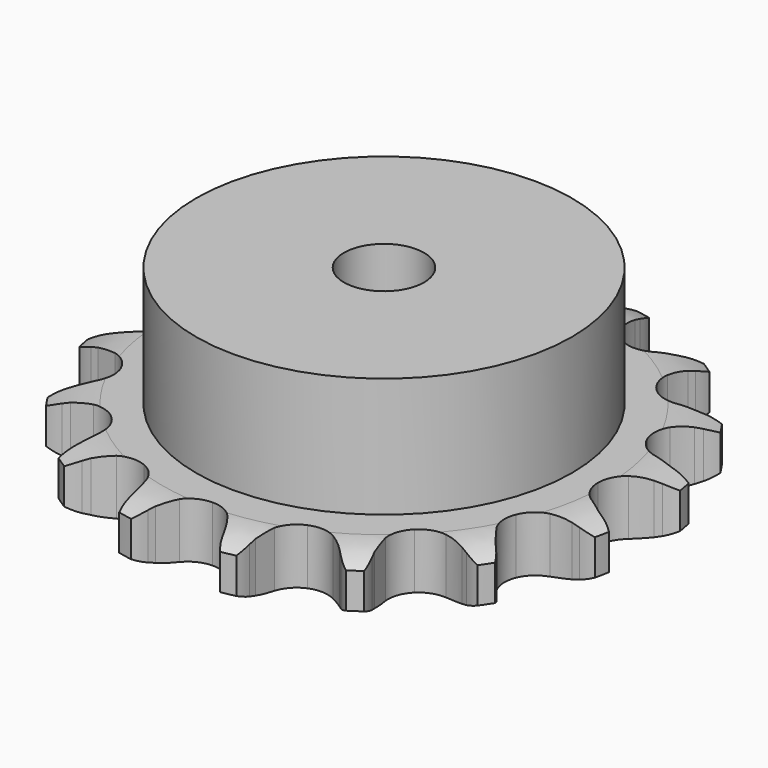
from build123d import *

# Parameters (mm, degrees)
PAD_DEPTH         = 11.1
SKETCH001_R       = 37.5
PAD001_DEPTH      = 35
SKETCH002_R       = 8
POCKET_DEPTH      = 0.001
POCKET_DEPTH_BACK = -35.001


with BuildPart() as part:
    # Sprocket → Pad (new body)
    with BuildSketch(Plane.XY):
        with BuildLine():
            ThreePointArc((-10.675506, 53.669391), (-8.778269, 51.876827), (-7.406396, 49.656297))
            Line((-7.406396, 49.656297), (-6.838144, 48.394825))
            ThreePointArc((-6.838144, 48.394825), (-5.906426, 46.633258), (-4.759849, 45.003356))
            ThreePointArc((-4.759849, 45.003356), (-2.63954, 43.320559), (0, 42.720264))
            ThreePointArc((0, 42.720264), (2.63954, 43.320559), (4.759849, 45.003356))
            ThreePointArc((4.759849, 45.003356), (5.906426, 46.633258), (6.838144, 48.394825))
            Line((6.838144, 48.394825), (7.406396, 49.656297))
            ThreePointArc((7.406396, 49.656297), (8.778269, 51.876827), (10.675506, 53.669391))
            ThreePointArc((10.675506, 53.669391), (11.74234, 51.287237), (12.160025, 48.710741))
            Line((12.160025, 48.710741), (12.202276, 47.327833))
            ThreePointArc((12.202276, 47.327833), (12.388949, 45.343804), (12.824511, 43.399195))
            ThreePointArc((12.824511, 43.399195), (14.139443, 41.033085), (16.348337, 39.468378))
            ThreePointArc((16.348337, 39.468378), (19.016677, 39.012869), (21.619566, 39.756164))
            Line((21.619566, 39.756164), (24.837519, 42.094144))
            ThreePointArc((24.837519, 42.094144), (25.330981, 42.579202), (25.845259, 43.042131))
            ThreePointArc((25.845259, 43.042131), (27.962465, 44.568641), (30.401268, 45.498713))
            ThreePointArc((30.401268, 45.498713), (30.475283, 42.88963), (29.875191, 40.349417))
            Line((29.875191, 40.349417), (29.385011, 39.055607))
            ThreePointArc((29.385011, 39.055607), (28.798219, 37.151167), (28.456457, 35.1879))
            ThreePointArc((28.456457, 35.1879), (28.765824, 32.498697), (30.207789, 30.207789))
            ThreePointArc((30.207789, 30.207789), (32.498697, 28.765824), (35.1879, 28.456457))
            Line((35.1879, 28.456457), (39.055607, 29.385011))
            ThreePointArc((39.055607, 29.385011), (39.69713, 29.644306), (40.349417, 29.875191))
            ThreePointArc((40.349417, 29.875191), (42.88963, 30.475283), (45.498713, 30.401268))
            ThreePointArc((45.498713, 30.401268), (44.568641, 27.962465), (43.042131, 25.845259))
            Line((43.042131, 25.845259), (42.094144, 24.837519))
            ThreePointArc((42.094144, 24.837519), (40.823221, 23.302601), (39.756164, 21.619566))
            ThreePointArc((39.756164, 21.619566), (39.012869, 19.016677), (39.468378, 16.348337))
            ThreePointArc((39.468378, 16.348337), (41.033085, 14.139443), (43.399195, 12.824511))
            Line((43.399195, 12.824511), (47.327833, 12.202276))
            ThreePointArc((47.327833, 12.202276), (48.019751, 12.196334), (48.710741, 12.160025))
            ThreePointArc((48.710741, 12.160025), (51.287237, 11.74234), (53.669391, 10.675506))
            ThreePointArc((53.669391, 10.675506), (51.876827, 8.778269), (49.656297, 7.406396))
            Line((49.656297, 7.406396), (48.394825, 6.838144))
            ThreePointArc((48.394825, 6.838144), (46.633258, 5.906426), (45.003356, 4.759849))
            ThreePointArc((45.003356, 4.759849), (43.320559, 2.63954), (42.720264, 0))
            ThreePointArc((42.720264, 0), (43.320559, -2.63954), (45.003356, -4.759849))
            Line((45.003356, -4.759849), (48.394825, -6.838144))
            ThreePointArc((48.394825, -6.838144), (49.0318, -7.10842), (49.656297, -7.406396))
            ThreePointArc((49.656297, -7.406396), (51.876827, -8.778269), (53.669391, -10.675506))
            ThreePointArc((53.669391, -10.675506), (51.287237, -11.74234), (48.710741, -12.160025))
            Line((48.710741, -12.160025), (47.327833, -12.202276))
            ThreePointArc((47.327833, -12.202276), (45.343804, -12.388949), (43.399195, -12.824511))
            ThreePointArc((43.399195, -12.824511), (41.033085, -14.139443), (39.468378, -16.348337))
            ThreePointArc((39.468378, -16.348337), (39.012869, -19.016677), (39.756164, -21.619566))
            Line((39.756164, -21.619566), (42.094144, -24.837519))
            ThreePointArc((42.094144, -24.837519), (42.579202, -25.330981), (43.042131, -25.845259))
            ThreePointArc((43.042131, -25.845259), (44.568641, -27.962465), (45.498713, -30.401268))
            ThreePointArc((45.498713, -30.401268), (42.88963, -30.475283), (40.349417, -29.875191))
            Line((40.349417, -29.875191), (39.055607, -29.385011))
            ThreePointArc((39.055607, -29.385011), (37.151167, -28.798219), (35.1879, -28.456457))
            ThreePointArc((35.1879, -28.456457), (32.498697, -28.765824), (30.207789, -30.207789))
            ThreePointArc((30.207789, -30.207789), (28.765824, -32.498697), (28.456457, -35.1879))
            Line((28.456457, -35.1879), (29.385011, -39.055607))
            ThreePointArc((29.385011, -39.055607), (29.644306, -39.69713), (29.875191, -40.349417))
            ThreePointArc((29.875191, -40.349417), (30.475283, -42.88963), (30.401268, -45.498713))
            ThreePointArc((30.401268, -45.498713), (27.962465, -44.568641), (25.845259, -43.042131))
            Line((25.845259, -43.042131), (24.837519, -42.094144))
            ThreePointArc((24.837519, -42.094144), (23.302601, -40.823221), (21.619566, -39.756164))
            ThreePointArc((21.619566, -39.756164), (19.016677, -39.012869), (16.348337, -39.468378))
            ThreePointArc((16.348337, -39.468378), (14.139443, -41.033085), (12.824511, -43.399195))
            Line((12.824511, -43.399195), (12.202276, -47.327833))
            ThreePointArc((12.202276, -47.327833), (12.196334, -48.019751), (12.160025, -48.710741))
            ThreePointArc((12.160025, -48.710741), (11.74234, -51.287237), (10.675506, -53.669391))
            ThreePointArc((10.675506, -53.669391), (8.778269, -51.876827), (7.406396, -49.656297))
            Line((7.406396, -49.656297), (6.838144, -48.394825))
            ThreePointArc((6.838144, -48.394825), (5.906426, -46.633258), (4.759849, -45.003356))
            ThreePointArc((4.759849, -45.003356), (2.63954, -43.320559), (0, -42.720264))
            ThreePointArc((0, -42.720264), (-2.63954, -43.320559), (-4.759849, -45.003356))
            Line((-4.759849, -45.003356), (-6.838144, -48.394825))
            ThreePointArc((-6.838144, -48.394825), (-7.10842, -49.0318), (-7.406396, -49.656297))
            ThreePointArc((-7.406396, -49.656297), (-8.778269, -51.876827), (-10.675506, -53.669391))
            ThreePointArc((-10.675506, -53.669391), (-11.74234, -51.287237), (-12.160025, -48.710741))
            Line((-12.160025, -48.710741), (-12.202276, -47.327833))
            ThreePointArc((-12.202276, -47.327833), (-12.388949, -45.343804), (-12.824511, -43.399195))
            ThreePointArc((-12.824511, -43.399195), (-14.139443, -41.033085), (-16.348337, -39.468378))
            ThreePointArc((-16.348337, -39.468378), (-19.016677, -39.012869), (-21.619566, -39.756164))
            Line((-21.619566, -39.756164), (-24.837519, -42.094144))
            ThreePointArc((-24.837519, -42.094144), (-25.330981, -42.579202), (-25.845259, -43.042131))
            ThreePointArc((-25.845259, -43.042131), (-27.962465, -44.568641), (-30.401268, -45.498713))
            ThreePointArc((-30.401268, -45.498713), (-30.475283, -42.88963), (-29.875191, -40.349417))
            Line((-29.875191, -40.349417), (-29.385011, -39.055607))
            ThreePointArc((-29.385011, -39.055607), (-28.798219, -37.151167), (-28.456457, -35.1879))
            ThreePointArc((-28.456457, -35.1879), (-28.765824, -32.498697), (-30.207789, -30.207789))
            ThreePointArc((-30.207789, -30.207789), (-32.498697, -28.765824), (-35.1879, -28.456457))
            Line((-35.1879, -28.456457), (-39.055607, -29.385011))
            ThreePointArc((-39.055607, -29.385011), (-39.69713, -29.644306), (-40.349417, -29.875191))
            ThreePointArc((-40.349417, -29.875191), (-42.88963, -30.475283), (-45.498713, -30.401268))
            ThreePointArc((-45.498713, -30.401268), (-44.568641, -27.962465), (-43.042131, -25.845259))
            Line((-43.042131, -25.845259), (-42.094144, -24.837519))
            ThreePointArc((-42.094144, -24.837519), (-40.823221, -23.302601), (-39.756164, -21.619566))
            ThreePointArc((-39.756164, -21.619566), (-39.012869, -19.016677), (-39.468378, -16.348337))
            ThreePointArc((-39.468378, -16.348337), (-41.033085, -14.139443), (-43.399195, -12.824511))
            Line((-43.399195, -12.824511), (-47.327833, -12.202276))
            ThreePointArc((-47.327833, -12.202276), (-48.019751, -12.196334), (-48.710741, -12.160025))
            ThreePointArc((-48.710741, -12.160025), (-51.287237, -11.74234), (-53.669391, -10.675506))
            ThreePointArc((-53.669391, -10.675506), (-51.876827, -8.778269), (-49.656297, -7.406396))
            Line((-49.656297, -7.406396), (-48.394825, -6.838144))
            ThreePointArc((-48.394825, -6.838144), (-46.633258, -5.906426), (-45.003356, -4.759849))
            ThreePointArc((-45.003356, -4.759849), (-43.320559, -2.63954), (-42.720264, 0))
            ThreePointArc((-42.720264, 0), (-43.320559, 2.63954), (-45.003356, 4.759849))
            Line((-45.003356, 4.759849), (-48.394825, 6.838144))
            ThreePointArc((-48.394825, 6.838144), (-49.0318, 7.10842), (-49.656297, 7.406396))
            ThreePointArc((-49.656297, 7.406396), (-51.876827, 8.778269), (-53.669391, 10.675506))
            ThreePointArc((-53.669391, 10.675506), (-51.287237, 11.74234), (-48.710741, 12.160025))
            Line((-48.710741, 12.160025), (-47.327833, 12.202276))
            ThreePointArc((-47.327833, 12.202276), (-45.343804, 12.388949), (-43.399195, 12.824511))
            ThreePointArc((-43.399195, 12.824511), (-41.033085, 14.139443), (-39.468378, 16.348337))
            ThreePointArc((-39.468378, 16.348337), (-39.012869, 19.016677), (-39.756164, 21.619566))
            Line((-39.756164, 21.619566), (-42.094144, 24.837519))
            ThreePointArc((-42.094144, 24.837519), (-42.579202, 25.330981), (-43.042131, 25.845259))
            ThreePointArc((-43.042131, 25.845259), (-44.568641, 27.962465), (-45.498713, 30.401268))
            ThreePointArc((-45.498713, 30.401268), (-42.88963, 30.475283), (-40.349417, 29.875191))
            Line((-40.349417, 29.875191), (-39.055607, 29.385011))
            ThreePointArc((-39.055607, 29.385011), (-37.151167, 28.798219), (-35.1879, 28.456457))
            ThreePointArc((-35.1879, 28.456457), (-32.498697, 28.765824), (-30.207789, 30.207789))
            ThreePointArc((-30.207789, 30.207789), (-28.765824, 32.498697), (-28.456457, 35.1879))
            Line((-28.456457, 35.1879), (-29.385011, 39.055607))
            ThreePointArc((-29.385011, 39.055607), (-29.644306, 39.69713), (-29.875191, 40.349417))
            ThreePointArc((-29.875191, 40.349417), (-30.475283, 42.88963), (-30.401268, 45.498713))
            ThreePointArc((-30.401268, 45.498713), (-27.962465, 44.568641), (-25.845259, 43.042131))
            Line((-25.845259, 43.042131), (-24.837519, 42.094144))
            ThreePointArc((-24.837519, 42.094144), (-23.302601, 40.823221), (-21.619566, 39.756164))
            ThreePointArc((-21.619566, 39.756164), (-19.016677, 39.012869), (-16.348337, 39.468378))
            ThreePointArc((-16.348337, 39.468378), (-14.139443, 41.033085), (-12.824511, 43.399195))
            Line((-12.824511, 43.399195), (-12.202276, 47.327833))
            ThreePointArc((-12.202276, 47.327833), (-12.196334, 48.019751), (-12.160025, 48.710741))
            ThreePointArc((-12.160025, 48.710741), (-11.74234, 51.287237), (-10.675506, 53.669391))
        make_face()
    extrude(amount=PAD_DEPTH)

    # Sketch → Groove (revolve, cut)
    with BuildSketch(Plane.XZ):
        with BuildLine():
            Line((44.264719, 0), (52.75, 0))
            Line((61.235281, 0), (52.75, 0))
            Line((61.235281, 11.1), (61.235281, 0))
            Line((52.75, 11.1), (61.235281, 11.1))
            Line((44.264719, 11.1), (52.75, 11.1))
            ThreePointArc((52.75, 9.1), (48.623618, 10.593242), (44.264719, 11.1))
            Line((52.75, 2), (52.75, 9.1))
            ThreePointArc((44.264719, 0), (48.623618, 0.506758), (52.75, 2))
        make_face()
    revolve(axis=Axis((0, 0, 0), (0, 0, 1)), mode=Mode.SUBTRACT)

    # Sketch001 → Pad001 (join)
    with BuildSketch(Plane.XY):
        Circle(SKETCH001_R)
    extrude(amount=PAD001_DEPTH)

    # Sketch002 → Pocket (cut, two sides)
    with BuildSketch(Plane.XY) as pocket_sk:
        Circle(SKETCH002_R)
    extrude(amount=-POCKET_DEPTH, mode=Mode.SUBTRACT)
    extrude(pocket_sk.sketch, amount=-POCKET_DEPTH_BACK, mode=Mode.SUBTRACT)


solid = part.part
